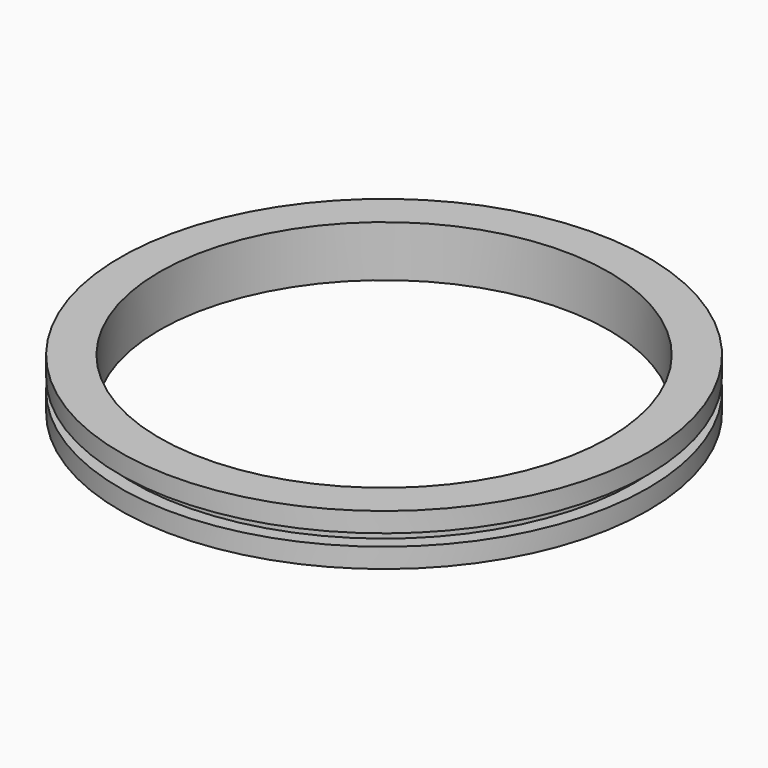
from build123d import *

# Parameters (mm, degrees)
F0_R     = 63.6619772368
F0_R_2   = 57.15
F1_DEPTH = 3
F2_R     = 67.15
F2_R_2   = 63.6619772368
F3_DEPTH = 5
F4_R     = 67.15
F4_R_2   = 63.6619772368
F4_R_3   = 57.15
F5_DEPTH = 5


with BuildPart() as f1:
    # F0 (on Top) → F1 (new body)
    with BuildSketch(Plane.XY):
        Circle(F0_R)
        Circle(F0_R_2, mode=Mode.SUBTRACT)
    extrude(amount=F1_DEPTH)

    # F2 (on face) + F0 (on Top) → F3 (join)
    with BuildSketch(Plane.XY):
        Circle(F2_R)
        Circle(F2_R_2, mode=Mode.SUBTRACT)
    with BuildSketch(Plane.XY):
        Circle(F0_R)
        Circle(F0_R_2, mode=Mode.SUBTRACT)
    extrude(amount=-F3_DEPTH)

    # F4 (on face) → F5 (join)
    with BuildSketch(Plane.XY.offset(3)):
        Circle(F4_R)
        Circle(F4_R_2, mode=Mode.SUBTRACT)
        Circle(F4_R_2)
        Circle(F4_R_3, mode=Mode.SUBTRACT)
    extrude(amount=F5_DEPTH)


solid = f1.part
